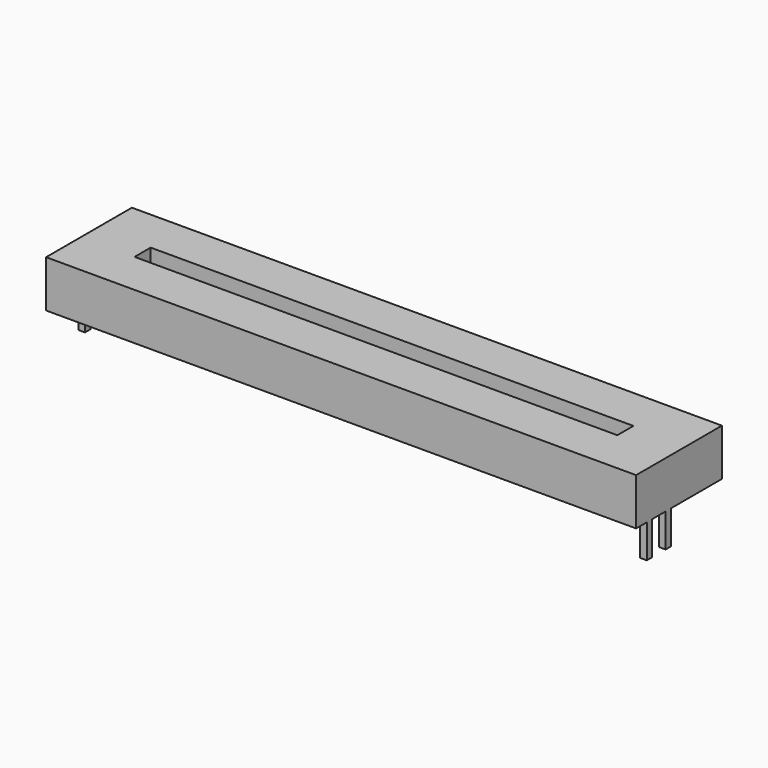
from build123d import *

# Parameters (mm, degrees)
F0_W     = 88
F0_H     = 16
F1_DEPTH = 7
F2_W     = 72
F2_H     = 3
F3_DEPTH = 5
F4_W     = 1
F4_H     = 1
F5_DEPTH = 5


with BuildPart() as f1:
    # F0 (on Top) → F1 (new body)
    with BuildSketch(Plane.XY):
        Rectangle(F0_W, F0_H)
    extrude(amount=F1_DEPTH)

    # F2 (on face) → F3 (cut)
    with BuildSketch(Plane.XY.offset(7)):
        Rectangle(F2_W, F2_H)
    extrude(amount=-F3_DEPTH, mode=Mode.SUBTRACT)

    # F4 (on face) → F5 (join)
    with BuildSketch(Plane(origin=(0, 0, 0), x_dir=(1, 0, 0), z_dir=(0, 0, -1))):
        with Locations((-43.5, 1.5)):
            Rectangle(F4_W, F4_H)
        with Locations((43.5, 5.5)):
            Rectangle(F4_W, F4_H)
        with Locations((43.5, 2)):
            Rectangle(F4_W, F4_H)
    extrude(amount=F5_DEPTH)


solid = f1.part
